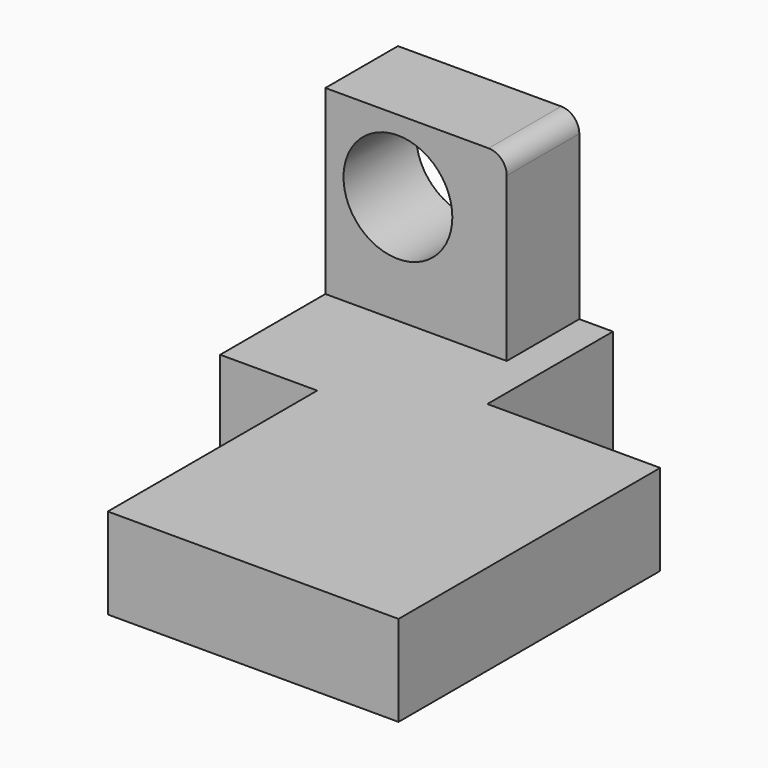
from build123d import *

# Parameters (mm, degrees)
F0_W       = 50
F0_H       = 50
F1_DEPTH   = 25
F2_R       = 5
F3_R       = 15
F4_DEPTH   = 25.001
F5_W       = 59.2767745256
F5_H       = 61.2553304527
F6_DEPTH   = 25
F6_FACE1_W = 59.2767745256
F6_FACE1_H = 61.2553304527
F7_W       = 7.189117372
F7_H       = 74.1506516933
F8_DEPTH   = 25


with BuildPart() as f1:
    # F0 (on Front) → F1 (new body)
    with BuildSketch(Plane.XZ):
        with Locations((25, 25)):
            Rectangle(F0_W, F0_H)
    extrude(amount=F1_DEPTH)

    # F2
    f2_edges = [f1.edges().sort_by_distance(p)[0] for p in [
        (50, -12.5, 50),
    ]]
    fillet(f2_edges, radius=F2_R)

    # F3 (on face) → F4 (cut, through all)
    with BuildSketch(Plane.XZ.offset(25)):
        with Locations((20, 30)):
            Circle(F3_R)
    extrude(amount=-F4_DEPTH, mode=Mode.SUBTRACT)

    # F5 (on Top) → F6 (join)
    with BuildSketch(Plane.XY):
        with Locations((29.6383872628, -30.6276652263)):
            Rectangle(F5_W, F5_H)
    extrude(amount=-F6_DEPTH)

    # F6_face1 (on face) + F7 (on face) → F8 (join)
    with BuildSketch(Plane(origin=(29.6383872628, -30.6276652263, -25), x_dir=(1, 0, 0), z_dir=(0, 0, -1))):
        Rectangle(F6_FACE1_W, F6_FACE1_H)
    with BuildSketch(Plane.XY):
        Polygon((59.2767745256, -61.2553304527), (38.7707948685, -61.2553304527), (36.2086445093, -61.2553304527), (26.7624184489, -61.2553304527), (26.7624184489, -133.4375590086), (106.9246456027, -133.4375590086), (106.9246456027, -43.2669967413), (59.2767745256, -43.2669967413), align=None)
        with Locations((79.3372057378, -86.4168554544)):
            Rectangle(F7_W, F7_H, mode=Mode.SUBTRACT)
        with Locations((79.3372057378, -86.4168554544)):
            Rectangle(F7_W, F7_H)
    extrude(amount=F8_DEPTH, dir=(0, 0, -1))


solid = f1.part
